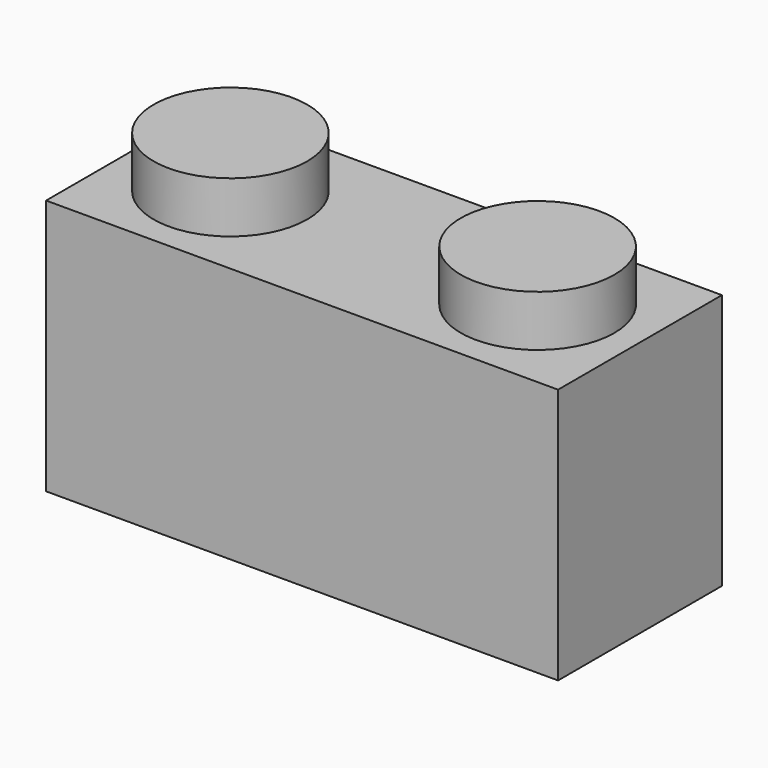
from build123d import *

# Parameters (mm, degrees)
F0_W     = 100
F0_H     = 40
F1_DEPTH = 50
F2_R     = 15
F3_DEPTH = 10
F4_W     = 90
F4_H     = 30
F5_DEPTH = 40


with BuildPart() as f1:
    # F0 (on Top) → F1 (new body)
    with BuildSketch(Plane.XY):
        Rectangle(F0_W, F0_H)
    extrude(amount=F1_DEPTH)

    # F2 (on face) → F3 (join)
    with BuildSketch(Plane.XY.offset(50)):
        with Locations((-30, 0)):
            Circle(F2_R)
        with Locations((30, 0)):
            Circle(F2_R)
    extrude(amount=F3_DEPTH)

    # F4 (on face) → F5 (cut)
    with BuildSketch(Plane(origin=(0, 0, 0), x_dir=(1, 0, 0), z_dir=(0, 0, -1))):
        Rectangle(F4_W, F4_H)
    extrude(amount=-F5_DEPTH, mode=Mode.SUBTRACT)


solid = f1.part
